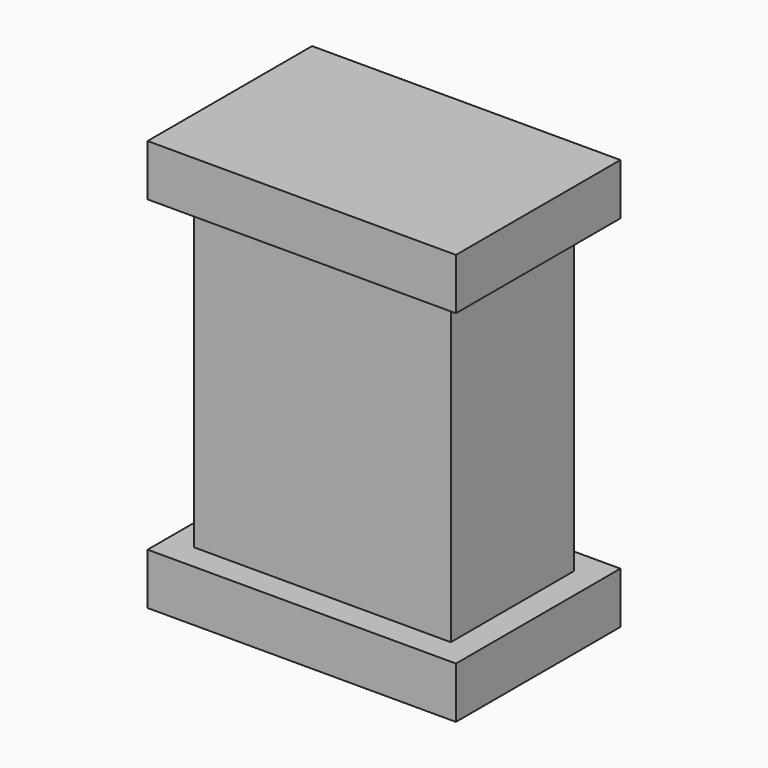
from build123d import *

# Parameters (mm, degrees)
F0_W     = 5
F0_H     = 3
F1_DEPTH = 6
F2_W     = 6
F2_H     = 4
F3_DEPTH = 1
F4_W     = 6
F4_H     = 4
F5_DEPTH = 1


with BuildPart() as f1:
    # F0 (on Top) → F1 (new body)
    with BuildSketch(Plane.XY):
        Rectangle(F0_W, F0_H)
    extrude(amount=F1_DEPTH)

    # F2 (on face) → F3 (join)
    with BuildSketch(Plane.XY.offset(6)):
        Rectangle(F2_W, F2_H)
    extrude(amount=F3_DEPTH)

    # F4 (on face) → F5 (join)
    with BuildSketch(Plane(origin=(0, 0, 0), x_dir=(1, 0, 0), z_dir=(0, 0, -1))):
        Rectangle(F4_W, F4_H)
    extrude(amount=F5_DEPTH)


solid = f1.part
